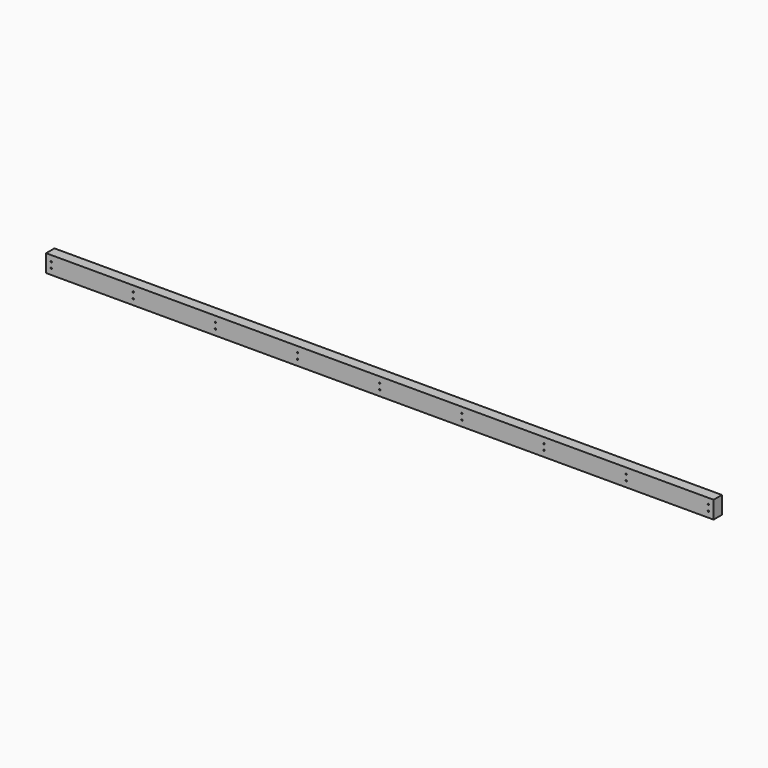
from build123d import *

# Parameters (mm, degrees)
F0_W     = 2387.6
F0_H     = 62.70498
F1_DEPTH = 37.30498
F3_D     = 15.875
F3_DEPTH = 6.35
F3_TIP   = 4.7693311635
F4_D     = 4.7625


with BuildPart() as f1:
    # F0 (on Front) → F1 (new body)
    with BuildSketch(Plane.XZ):
        Rectangle(F0_W, F0_H)
    extrude(amount=F1_DEPTH)

    # F3
    with Locations(Plane(origin=(0, 0, 0), x_dir=(-1, 0, 0), z_dir=(0, 1, 0))):
        with Locations((-1175.1437, 10.44829), (-1175.1437, -10.45591), (-881.2657, 10.44829), (-881.2657, -10.45591), (-587.3877, 10.44829), (-587.3877, -10.45591), (-293.5097, 10.44829), (-293.5097, -10.45591), (0.3683, 10.44829), (0.3683, -10.45591), (294.2463, 10.44829), (294.2463, -10.45591), (588.1243, 10.44829), (588.1243, -10.45591), (882.0023, 10.44829), (882.0023, -10.45591), (1175.131, 10.44829), (1175.131, -10.45591)):
            Hole(F3_D / 2, depth=F3_DEPTH)
            with Locations((0, 0, -(F3_DEPTH + F3_TIP / 2))):  # 118° drill point
                Cone(0, F3_D / 2, F3_TIP, mode=Mode.SUBTRACT)

    # F4 (through all)
    with Locations(Plane(origin=(0, 0, 0), x_dir=(-1, 0, 0), z_dir=(0, 1, 0))):
        with Locations((-1175.1437, 10.44829), (-1175.1437, -10.45591), (-881.2657, 10.44829), (-881.2657, -10.45591), (-587.3877, 10.44829), (-587.3877, -10.45591), (-293.5097, 10.44829), (-293.5097, -10.45591), (0.3683, 10.44829), (0.3683, -10.45591), (294.2463, 10.44829), (294.2463, -10.45591), (588.1243, 10.44829), (588.1243, -10.45591), (882.0023, 10.44829), (882.0023, -10.45591), (1175.131, 10.44829), (1175.131, -10.45591)):
            Hole(F4_D / 2)


solid = f1.part
